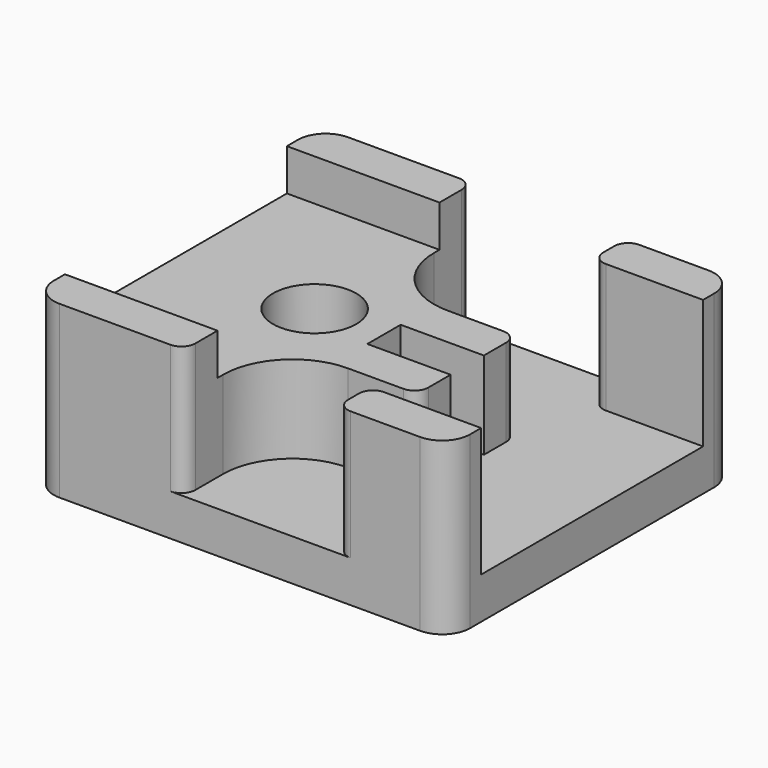
from build123d import *

# Parameters (mm, degrees)
PAD_DEPTH       = 3
SKETCH001_W     = 8
SKETCH001_H     = 3
PAD001_DEPTH    = 6.3
SKETCH002_W     = 8
SKETCH002_H     = 3
SKETCH002_W_2   = 21
PAD002_DEPTH    = 3
SKETCH003_R     = 3
POCKET_DEPTH    = 20
CHAMFER_SIZE2   = 4
CHAMFER_SIZE    = 4
FILLET001_R     = 5
FILLET002_R     = 1
POCKET001_DEPTH = 10
FILLET_R        = 2


with BuildPart() as part:
    # Sketch → Pad (new body)
    with BuildSketch(Plane.XY):
        Polygon((20, -10), (20, 10), (20, 13), (-20, 13), (-20, 10), (-20, -10), (-20, -13), (20, -13), align=None)
    extrude(amount=PAD_DEPTH)

    # Sketch001 (on Face4 of Pad) → Pad001 (join)
    with BuildSketch(Plane.XY.offset(3)):
        with Locations((16, 11.5)):
            Rectangle(SKETCH001_W, SKETCH001_H)
        with Locations((16, -11.5)):
            Rectangle(SKETCH001_W, SKETCH001_H)
        Polygon((11, 1.5), (11, 4.5), (1, 4.5), (1, 13), (-20, 13), (-20, -13), (1, -13), (1, -4.5), (11, -4.5), (11, -1.5), (5, -1.5), (5, 1.5), align=None)
    extrude(amount=PAD001_DEPTH)

    # Sketch002 (on Face5 of Pad001) → Pad002 (join)
    with BuildSketch(Plane.XY.offset(9.3)):
        with Locations((16, 11.5)):
            Rectangle(SKETCH002_W, SKETCH002_H)
        with Locations((-9.5, 11.5)):
            Rectangle(SKETCH002_W_2, SKETCH002_H)
        with Locations((16, -11.5)):
            Rectangle(SKETCH002_W, SKETCH002_H)
        with Locations((-9.5, -11.5)):
            Rectangle(SKETCH002_W_2, SKETCH002_H)
    extrude(amount=PAD002_DEPTH)

    # Sketch003 (on Face1 of Pad002) → Pocket (cut)
    with BuildSketch(Plane(origin=(0, 0, 0), x_dir=(1, 0, 0), z_dir=(0, 0, -1))):
        Circle(SKETCH003_R)
    extrude(amount=-POCKET_DEPTH, mode=Mode.SUBTRACT)

    # Chamfer
    chamfer_edges = [part.edges().sort_by_distance(p)[0] for p in [
        (-3, 0, 0),
    ]]
    chamfer_side = part.faces().sort_by_distance((-19.522926, 0, 0))[0]
    chamfer(chamfer_edges, length=CHAMFER_SIZE, length2=CHAMFER_SIZE2, reference=chamfer_side)

    # Fillet001
    fillet001_edges = [part.edges().sort_by_distance(p)[0] for p in [
        (1, 4.5, 6.15),
        (1, -4.5, 6.15),
    ]]
    fillet(fillet001_edges, radius=FILLET001_R)

    # Fillet002
    fillet002_edges = [part.edges().sort_by_distance(p)[0] for p in [
        (11, 4.5, 6.15),
        (12, 10, 7.65),
        (11, -4.5, 6.15),
        (12, -10, 7.65),
        (1, 13, 7.65),
        (12, 13, 7.65),
        (1, -13, 7.65),
        (12, -13, 7.65),
    ]]
    fillet(fillet002_edges, radius=FILLET002_R)

    # Fillet002 Face10 → Pocket001 (cut)
    with BuildSketch(Plane(origin=(-20, 0, 5.076097), x_dir=(0, 1, 0), z_dir=(-1, 0, 0))):
        Polygon((13, 5.076097), (-13, 5.076097), (-13, -7.223903), (-10, -7.223903), (-10, -4.223903), (10, -4.223903), (10, -7.223903), (13, -7.223903), align=None)
    extrude(amount=-POCKET001_DEPTH, mode=Mode.SUBTRACT)

    # Fillet
    fillet_edges = [part.edges().sort_by_distance(p)[0] for p in [
        (-10, 13, 6.15),
        (20, 13, 6.15),
        (20, -13, 6.15),
        (-10, -13, 6.15),
    ]]
    fillet(fillet_edges, radius=FILLET_R)


solid = part.part
